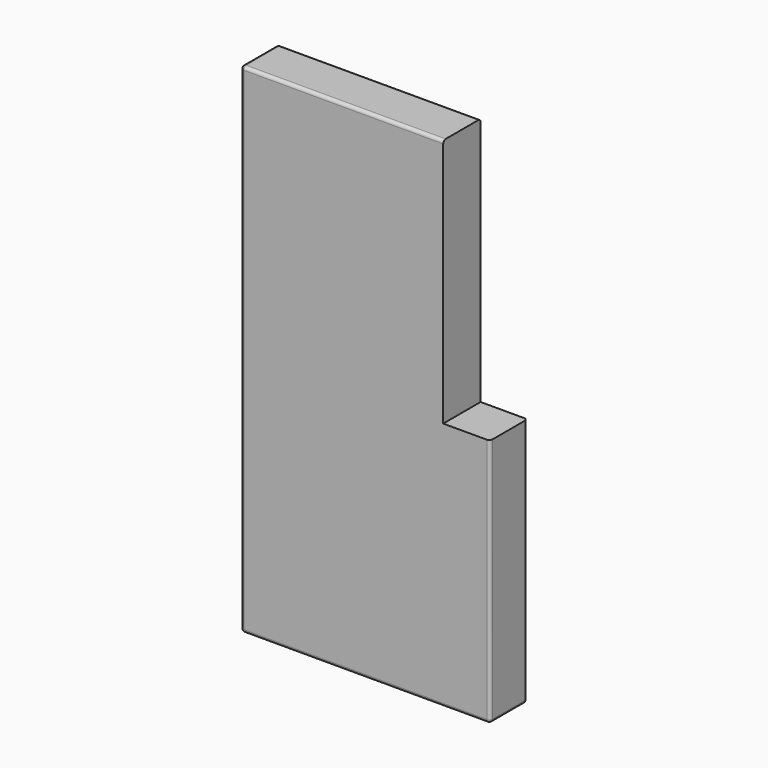
from build123d import *

# Parameters (mm, degrees)
F0_W     = 160
F0_H     = 30
F1_DEPTH = 160
F2_R     = 2
F3_W     = 28
F3_H     = 158
F4_DEPTH = 30.001
F3_R     = 5.5
F5_DEPTH = 15


with BuildPart() as f1:
    # F0 (on Top) → F1 (new body, symmetric)
    with BuildSketch(Plane.XY):
        Rectangle(F0_W, F0_H)
    extrude(amount=F1_DEPTH, both=True)

    # F2
    f2_edges = [f1.edges().sort_by_distance(p)[0] for p in [
        (0, -15, -160),
        (80, -15, 0),
        (0, -15, 160),
        (-80, -15, 0),
        (80, 15, 0),
        (0, 15, -160),
        (-80, 15, 0),
        (0, 15, 160),
        (80, 0, 160),
        (-80, 0, 160),
        (80, 0, -160),
        (-80, 0, -160),
    ]]
    fillet(f2_edges, radius=F2_R)

    # F3 (on face) → F4 (cut, through all)
    with BuildSketch(Plane(origin=(0, 15, 0), x_dir=(-1, 0, 0), z_dir=(0, 1, 0))):
        with Locations((-64, 79)):
            Rectangle(F3_W, F3_H)
        Polygon((-80, 0), (-78, 0), (-78, 158), (-50, 158), (-50, 160), (-80, 160), align=None)
    extrude(amount=-F4_DEPTH, mode=Mode.SUBTRACT)

    # F3 (on face) → F5 (cut)
    with BuildSketch(Plane(origin=(0, 15, 0), x_dir=(-1, 0, 0), z_dir=(0, 1, 0))):
        with Locations((60, 140)):
            Circle(F3_R)
        with Locations((-30, 140)):
            Circle(F3_R)
        with Locations((-30, 50)):
            Circle(F3_R)
        with Locations((60, 50)):
            Circle(F3_R)
    extrude(amount=-F5_DEPTH, mode=Mode.SUBTRACT)


solid = f1.part
